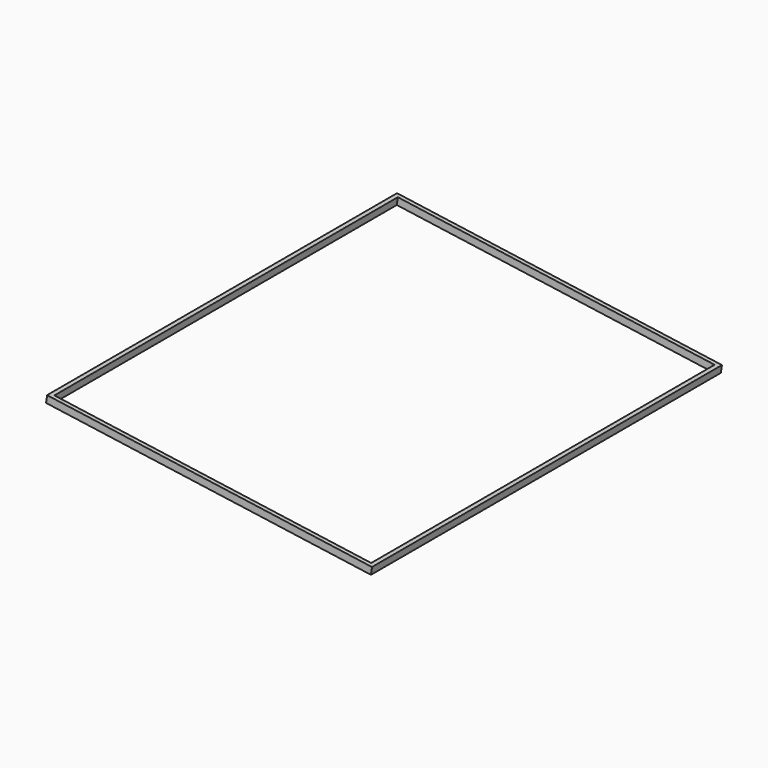
from build123d import *

# Parameters (mm, degrees)
F1_DEPTH = 508
F2_W     = 371.5004
F2_H     = 498.5004
F3_DEPTH = 25.4


with BuildPart() as f1:
    # F0 (on Front) → F1 (new body)
    with BuildSketch(Plane.XZ):
        Polygon((-175.6305839464, 61.4008368448), (-176.807737869, 53.0249514658), (200.4843963216, 0), (201.6615502441, 8.375885379), align=None)
    extrude(amount=-F1_DEPTH)

    # F2 (on face) → F3 (cut)
    with BuildSketch(Plane(origin=(5.0603666747, 0, 36.0063798214), x_dir=(0.9902680687, 0, -0.139173101), z_dir=(0.139173101, 0, 0.9902680687))):
        with Locations((8.0332959582, 254)):
            Rectangle(F2_W, F2_H)
    extrude(amount=-F3_DEPTH, mode=Mode.SUBTRACT)


solid = f1.part
